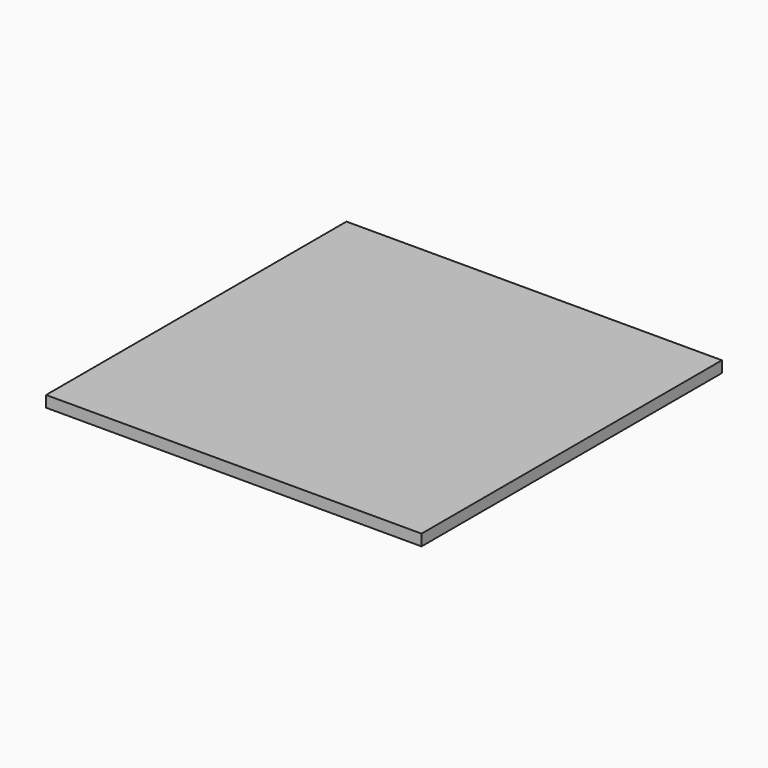
from build123d import *

# Parameters (mm, degrees)
BOX_W     = 10
BOX_H     = 10
BOX_DEPTH = 0.3


with BuildPart() as part:
    # Box → Box (new body)
    with BuildSketch(Plane.XY):
        with Locations((5, 5)):
            Rectangle(BOX_W, BOX_H)
    extrude(amount=BOX_DEPTH)


solid = part.part
